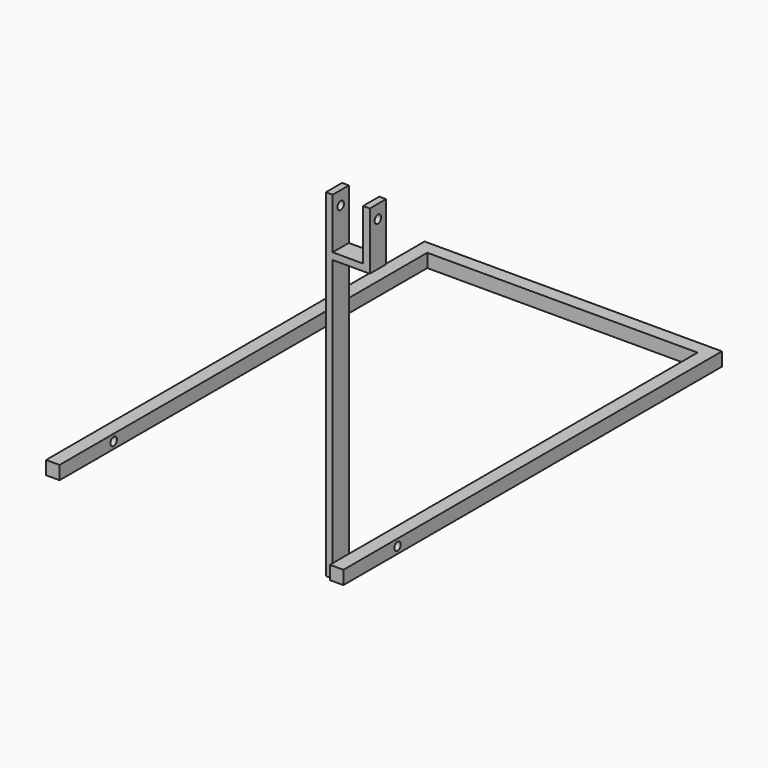
from build123d import *

# Parameters (mm, degrees)
F2_DEPTH = 926
F0_R     = 6
F3_DEPTH = 594
F5_DEPTH = 769


with BuildPart() as f2:
    # F1 (on Top) → F2 (new body)
    with BuildSketch(Plane.XY):
        Polygon((0, 700), (0, 0), (20, 0), (20, 680), (420, 680), (420, 35), (410, 35), (410, 5), (420, 5), (420, 0), (440, 0), (440, 5), (520.748317, 5), (520.748317, 35), (440, 35), (440, 700), align=None)
    extrude(amount=F2_DEPTH)

    # F0 (on Right) → F3 (intersect, symmetric)
    with BuildSketch(Plane.YZ):
        Polygon((0, 20), (0, 0), (800, 0), (800, 20), (35, 20), (35, 500), (5, 500), (5, 20), align=None)
        with Locations((100, 10)):
            Circle(F0_R, mode=Mode.SUBTRACT)
        with Locations((20, 480)):
            Circle(F0_R, mode=Mode.SUBTRACT)
    extrude(amount=F3_DEPTH, both=True, mode=Mode.INTERSECT)

    # F4 (on Front) → F5 (intersect)
    with BuildSketch(Plane.XZ):
        Polygon((0, 20), (0, 0), (440, 0), (440, 20), (420, 20), (420, 415), (475, 415), (475, 520), (465, 520), (465, 425), (420, 425), (420, 520), (410, 520), (410, 20), align=None)
    extrude(amount=-F5_DEPTH, mode=Mode.INTERSECT)


solid = f2.part
